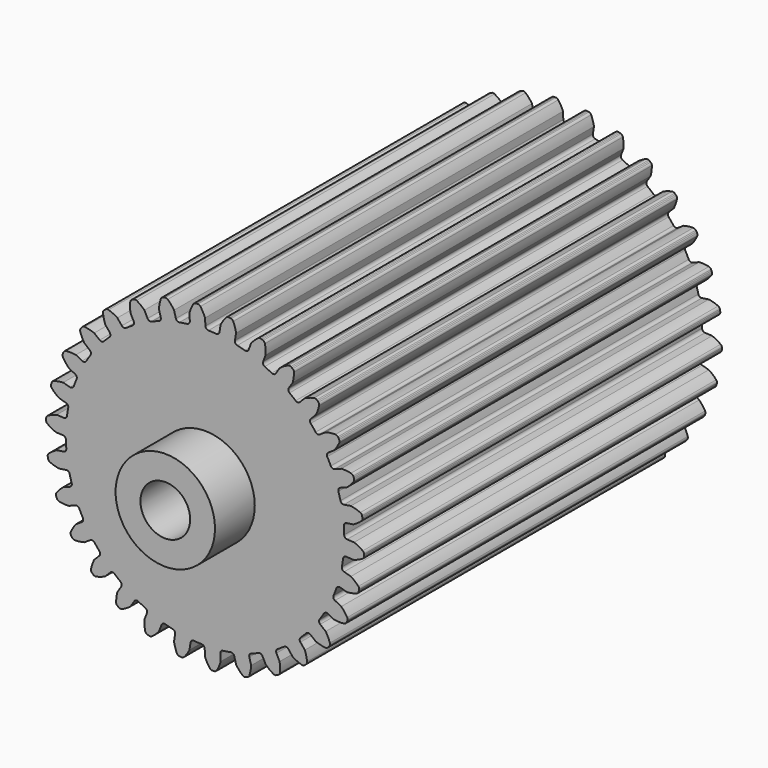
from build123d import *

# Parameters (mm, degrees)
F0_R     = 6.35
F1_DEPTH = 114.3
F2_R     = 12.7
F2_R_2   = 6.35
F3_DEPTH = 12.7


with BuildPart() as f1:
    # F0 (on Front) → F1 (new body)
    with BuildSketch(Plane.XZ):
        with BuildLine():
            ThreePointArc((-3.887965, 36.086799), (-4.069389, 35.541508), (-4.573026, 35.264728))
            ThreePointArc((-4.573026, 35.264728), (-5.56281, 35.122197), (-6.548194, 34.951892))
            ThreePointArc((-6.548194, 34.951892), (-7.112711, 35.059493), (-7.453759, 35.522033))
            Line((-7.453759, 35.522033), (-7.921435, 37.267424))
            ThreePointArc((-7.921435, 37.267424), (-8.670112, 38.268273), (-9.543393, 39.162475))
            ThreePointArc((-9.543393, 39.162475), (-9.866172, 39.337272), (-10.23312, 39.346747))
            Line((-10.23312, 39.346747), (-10.526235, 39.284443))
            Line((-10.526235, 39.284443), (-10.811231, 39.191842))
            ThreePointArc((-10.811231, 39.191842), (-11.12428, 39.000163), (-11.316417, 38.687395))
            ThreePointArc((-11.316417, 38.687395), (-11.625599, 37.476353), (-11.773547, 36.235253))
            Line((-11.773547, 36.235253), (-11.305871, 34.489862))
            ThreePointArc((-11.305871, 34.489862), (-11.369959, 33.918767), (-11.805044, 33.543323))
            ThreePointArc((-11.805044, 33.543323), (-12.743564, 33.19812), (-13.672007, 32.826663))
            ThreePointArc((-13.672007, 32.826663), (-14.246559, 32.814543), (-14.676323, 33.196067))
            Line((-14.676323, 33.196067), (-15.496666, 34.806082))
            ThreePointArc((-15.496666, 34.806082), (-16.437071, 35.629402), (-17.477183, 36.322498))
            ThreePointArc((-17.477183, 36.322498), (-17.829251, 36.426366), (-18.19015, 36.35934))
            Line((-18.19015, 36.35934), (-18.463906, 36.237456))
            Line((-18.463906, 36.237456), (-18.723422, 36.087625))
            ThreePointArc((-18.723422, 36.087625), (-18.989778, 35.835048), (-19.112688, 35.489167))
            ThreePointArc((-19.112688, 35.489167), (-19.163324, 34.240306), (-19.05, 32.995568))
            Line((-19.05, 32.995568), (-18.229657, 31.385553))
            ThreePointArc((-18.229657, 31.385553), (-18.173606, 30.813613), (-18.521125, 30.355915))
            ThreePointArc((-18.521125, 30.355915), (-19.367364, 29.823125), (-20.198288, 29.266752))
            ThreePointArc((-20.198288, 29.266752), (-20.757765, 29.135441), (-21.25746, 29.419275))
            Line((-21.25746, 29.419275), (-22.394618, 30.823547))
            ThreePointArc((-22.394618, 30.823547), (-23.48565, 31.433355), (-24.647137, 31.895054))
            ThreePointArc((-24.647137, 31.895054), (-25.013107, 31.923452), (-25.352184, 31.782857))
            Line((-25.352184, 31.782857), (-25.594616, 31.606719))
            Line((-25.594616, 31.606719), (-25.81731, 31.406205))
            ThreePointArc((-25.81731, 31.406205), (-26.025331, 31.103769), (-26.073642, 30.739892))
            ThreePointArc((-26.073642, 30.739892), (-25.863519, 29.507795), (-25.493876, 28.313818))
            Line((-25.493876, 28.313818), (-24.356718, 26.909545))
            ThreePointArc((-24.356718, 26.909545), (-24.182979, 26.361757), (-24.427743, 25.841807))
            ThreePointArc((-24.427743, 25.841807), (-25.144717, 25.144717), (-25.841807, 24.427743))
            ThreePointArc((-25.841807, 24.427743), (-26.361757, 24.182979), (-26.909545, 24.356718))
            Line((-26.909545, 24.356718), (-28.313818, 25.493876))
            ThreePointArc((-28.313818, 25.493876), (-29.507795, 25.863519), (-30.739892, 26.073642))
            ThreePointArc((-30.739892, 26.073642), (-31.103769, 26.025331), (-31.406205, 25.81731))
            Line((-31.406205, 25.81731), (-31.606719, 25.594616))
            Line((-31.606719, 25.594616), (-31.782857, 25.352184))
            ThreePointArc((-31.782857, 25.352184), (-31.923452, 25.013107), (-31.895054, 24.647137))
            ThreePointArc((-31.895054, 24.647137), (-31.433355, 23.48565), (-30.823547, 22.394618))
            Line((-30.823547, 22.394618), (-29.419275, 21.25746))
            ThreePointArc((-29.419275, 21.25746), (-29.135441, 20.757765), (-29.266752, 20.198288))
            ThreePointArc((-29.266752, 20.198288), (-29.823125, 19.367364), (-30.355915, 18.521125))
            ThreePointArc((-30.355915, 18.521125), (-30.813613, 18.173606), (-31.385553, 18.229657))
            Line((-31.385553, 18.229657), (-32.995568, 19.05))
            ThreePointArc((-32.995568, 19.05), (-34.240306, 19.163324), (-35.489167, 19.112688))
            ThreePointArc((-35.489167, 19.112688), (-35.835048, 18.989778), (-36.087625, 18.723422))
            Line((-36.087625, 18.723422), (-36.237456, 18.463906))
            Line((-36.237456, 18.463906), (-36.35934, 18.19015))
            ThreePointArc((-36.35934, 18.19015), (-36.426366, 17.829251), (-36.322498, 17.477183))
            ThreePointArc((-36.322498, 17.477183), (-35.629402, 16.437071), (-34.806082, 15.496666))
            Line((-34.806082, 15.496666), (-33.196067, 14.676323))
            ThreePointArc((-33.196067, 14.676323), (-32.814543, 14.246559), (-32.826663, 13.672007))
            ThreePointArc((-32.826663, 13.672007), (-33.19812, 12.743564), (-33.543323, 11.805044))
            ThreePointArc((-33.543323, 11.805044), (-33.918767, 11.369959), (-34.489862, 11.305871))
            Line((-34.489862, 11.305871), (-36.235253, 11.773547))
            ThreePointArc((-36.235253, 11.773547), (-37.476353, 11.625599), (-38.687395, 11.316417))
            ThreePointArc((-38.687395, 11.316417), (-39.000163, 11.12428), (-39.191842, 10.811231))
            Line((-39.191842, 10.811231), (-39.284443, 10.526235))
            Line((-39.284443, 10.526235), (-39.346747, 10.23312))
            ThreePointArc((-39.346747, 10.23312), (-39.337272, 9.866172), (-39.162475, 9.543393))
            ThreePointArc((-39.162475, 9.543393), (-38.268273, 8.670112), (-37.267424, 7.921435))
            Line((-37.267424, 7.921435), (-35.522033, 7.453759))
            ThreePointArc((-35.522033, 7.453759), (-35.059493, 7.112711), (-34.951892, 6.548194))
            ThreePointArc((-34.951892, 6.548194), (-35.122197, 5.56281), (-35.264728, 4.573026))
            ThreePointArc((-35.264728, 4.573026), (-35.541508, 4.069389), (-36.086799, 3.887965))
            Line((-36.086799, 3.887965), (-37.891284, 3.982534))
            ThreePointArc((-37.891284, 3.982534), (-39.074503, 3.57978), (-40.194798, 3.025564))
            ThreePointArc((-40.194798, 3.025564), (-40.460784, 2.772598), (-40.583188, 2.426538))
            Line((-40.583188, 2.426538), (-40.614511, 2.128516))
            Line((-40.614511, 2.128516), (-40.614511, 1.828853))
            ThreePointArc((-40.614511, 1.828853), (-40.528951, 1.471894), (-40.290864, 1.19251))
            ThreePointArc((-40.290864, 1.19251), (-39.234637, 0.524228), (-38.1, 0))
            Line((-38.1, 0), (-36.295515, -0.094569))
            ThreePointArc((-36.295515, -0.094569), (-35.772175, -0.331998), (-35.549555, -0.861807))
            ThreePointArc((-35.549555, -0.861807), (-35.511266, -1.861067), (-35.444895, -2.858854))
            ThreePointArc((-35.444895, -2.858854), (-35.610914, -3.409031), (-36.106569, -3.699863))
            Line((-36.106569, -3.699863), (-37.891284, -3.982534))
            ThreePointArc((-37.891284, -3.982534), (-38.964909, -4.622492), (-39.945495, -5.39752))
            ThreePointArc((-39.945495, -5.39752), (-40.153074, -5.70026), (-40.200853, -6.064207))
            Line((-40.200853, -6.064207), (-40.16953, -6.362229))
            Line((-40.16953, -6.362229), (-40.107226, -6.655343))
            ThreePointArc((-40.107226, -6.655343), (-39.94932, -6.986713), (-39.658349, -7.21049))
            ThreePointArc((-39.658349, -7.21049), (-38.486259, -7.644568), (-37.267424, -7.921435))
            Line((-37.267424, -7.921435), (-35.482709, -7.638764))
            ThreePointArc((-35.482709, -7.638764), (-34.921441, -7.762196), (-34.593533, -8.234143))
            ThreePointArc((-34.593533, -8.234143), (-34.348322, -9.203605), (-34.075949, -10.16579))
            ThreePointArc((-34.075949, -10.16579), (-34.123953, -10.738461), (-34.548309, -11.12599))
            Line((-34.548309, -11.12599), (-36.235253, -11.773547))
            ThreePointArc((-36.235253, -11.773547), (-37.152362, -12.62274), (-37.950383, -13.584707))
            ThreePointArc((-37.950383, -13.584707), (-38.090482, -13.923989), (-38.061549, -14.289917))
            Line((-38.061549, -14.289917), (-37.968948, -14.574913))
            Line((-37.968948, -14.574913), (-37.847064, -14.848669))
            ThreePointArc((-37.847064, -14.848669), (-37.623712, -15.139967), (-37.292573, -15.298358))
            ThreePointArc((-37.292573, -15.298358), (-36.055847, -15.479259), (-34.806082, -15.496666))
            Line((-34.806082, -15.496666), (-33.119138, -14.849109))
            ThreePointArc((-33.119138, -14.849109), (-32.544472, -14.853149), (-32.125606, -15.246607))
            ThreePointArc((-32.125606, -15.246607), (-31.684192, -16.143902), (-31.217722, -17.028431))
            ThreePointArc((-31.217722, -17.028431), (-31.145611, -17.598569), (-31.480122, -18.065858))
            Line((-31.480122, -18.065858), (-32.995568, -19.05))
            ThreePointArc((-32.995568, -19.05), (-33.716079, -20.071313), (-34.296657, -21.178176))
            ThreePointArc((-34.296657, -21.178176), (-34.363154, -21.539173), (-34.258772, -21.891089))
            Line((-34.258772, -21.891089), (-34.10894, -22.150605))
            Line((-34.10894, -22.150605), (-33.932802, -22.393037))
            ThreePointArc((-33.932802, -22.393037), (-33.653767, -22.631532), (-33.296934, -22.717614))
            ThreePointArc((-33.296934, -22.717614), (-32.049622, -22.637432), (-30.823547, -22.394618))
            Line((-30.823547, -22.394618), (-29.308102, -21.410476))
            ThreePointArc((-29.308102, -21.410476), (-28.745154, -21.294949), (-28.253637, -21.592721))
            ThreePointArc((-28.253637, -21.592721), (-27.63531, -22.378633), (-26.99513, -23.146848))
            ThreePointArc((-26.99513, -23.146848), (-26.806056, -23.689535), (-27.036103, -24.216161))
            Line((-27.036103, -24.216161), (-28.313818, -25.493876))
            ThreePointArc((-28.313818, -25.493876), (-28.806241, -26.642674), (-29.144002, -27.846058))
            ThreePointArc((-29.144002, -27.846058), (-29.133991, -28.212992), (-28.958722, -28.535515))
            Line((-28.958722, -28.535515), (-28.758208, -28.758208))
            Line((-28.758208, -28.758208), (-28.535515, -28.958722))
            ThreePointArc((-28.535515, -28.958722), (-28.212992, -29.133991), (-27.846058, -29.144002))
            ThreePointArc((-27.846058, -29.144002), (-26.642674, -28.806241), (-25.493876, -28.313818))
            Line((-25.493876, -28.313818), (-24.216161, -27.036103))
            ThreePointArc((-24.216161, -27.036103), (-23.689535, -26.806056), (-23.146848, -26.99513))
            ThreePointArc((-23.146848, -26.99513), (-22.378633, -27.63531), (-21.592721, -28.253637))
            ThreePointArc((-21.592721, -28.253637), (-21.294949, -28.745154), (-21.410476, -29.308102))
            Line((-21.410476, -29.308102), (-22.394618, -30.823547))
            ThreePointArc((-22.394618, -30.823547), (-22.637432, -32.049622), (-22.717614, -33.296934))
            ThreePointArc((-22.717614, -33.296934), (-22.631532, -33.653767), (-22.393037, -33.932802))
            Line((-22.393037, -33.932802), (-22.150605, -34.10894))
            Line((-22.150605, -34.10894), (-21.891089, -34.258772))
            ThreePointArc((-21.891089, -34.258772), (-21.539173, -34.363154), (-21.178176, -34.296657))
            ThreePointArc((-21.178176, -34.296657), (-20.071313, -33.716079), (-19.05, -32.995568))
            Line((-19.05, -32.995568), (-18.065858, -31.480122))
            ThreePointArc((-18.065858, -31.480122), (-17.598569, -31.145611), (-17.028431, -31.217722))
            ThreePointArc((-17.028431, -31.217722), (-16.143902, -31.684192), (-15.246607, -32.125606))
            ThreePointArc((-15.246607, -32.125606), (-14.853149, -32.544472), (-14.849109, -33.119138))
            Line((-14.849109, -33.119138), (-15.496666, -34.806082))
            ThreePointArc((-15.496666, -34.806082), (-15.479259, -36.055847), (-15.298358, -37.292573))
            ThreePointArc((-15.298358, -37.292573), (-15.139967, -37.623712), (-14.848669, -37.847064))
            Line((-14.848669, -37.847064), (-14.574913, -37.968948))
            Line((-14.574913, -37.968948), (-14.289917, -38.061549))
            ThreePointArc((-14.289917, -38.061549), (-13.923989, -38.090482), (-13.584707, -37.950383))
            ThreePointArc((-13.584707, -37.950383), (-12.62274, -37.152362), (-11.773547, -36.235253))
            Line((-11.773547, -36.235253), (-11.12599, -34.548309))
            ThreePointArc((-11.12599, -34.548309), (-10.738461, -34.123953), (-10.16579, -34.075949))
            ThreePointArc((-10.16579, -34.075949), (-9.203605, -34.348322), (-8.234143, -34.593533))
            ThreePointArc((-8.234143, -34.593533), (-7.762196, -34.921441), (-7.638764, -35.482709))
            Line((-7.638764, -35.482709), (-7.921435, -37.267424))
            ThreePointArc((-7.921435, -37.267424), (-7.644568, -38.486259), (-7.21049, -39.658349))
            ThreePointArc((-7.21049, -39.658349), (-6.986713, -39.94932), (-6.655343, -40.107226))
            Line((-6.655343, -40.107226), (-6.362229, -40.16953))
            Line((-6.362229, -40.16953), (-6.064207, -40.200853))
            ThreePointArc((-6.064207, -40.200853), (-5.70026, -40.153074), (-5.39752, -39.945495))
            ThreePointArc((-5.39752, -39.945495), (-4.622492, -38.964909), (-3.982534, -37.891284))
            Line((-3.982534, -37.891284), (-3.699863, -36.106569))
            ThreePointArc((-3.699863, -36.106569), (-3.409031, -35.610914), (-2.858854, -35.444895))
            ThreePointArc((-2.858854, -35.444895), (-1.861067, -35.511266), (-0.861807, -35.549555))
            ThreePointArc((-0.861807, -35.549555), (-0.331998, -35.772175), (-0.094569, -36.295515))
            Line((-0.094569, -36.295515), (0, -38.1))
            ThreePointArc((0, -38.1), (0.524228, -39.234637), (1.19251, -40.290864))
            ThreePointArc((1.19251, -40.290864), (1.471894, -40.528951), (1.828853, -40.614511))
            Line((1.828853, -40.614511), (2.128516, -40.614511))
            Line((2.128516, -40.614511), (2.426538, -40.583188))
            ThreePointArc((2.426538, -40.583188), (2.772598, -40.460784), (3.025564, -40.194798))
            ThreePointArc((3.025564, -40.194798), (3.57978, -39.074503), (3.982534, -37.891284))
            Line((3.982534, -37.891284), (3.887965, -36.086799))
            ThreePointArc((3.887965, -36.086799), (4.069389, -35.541508), (4.573026, -35.264728))
            ThreePointArc((4.573026, -35.264728), (5.56281, -35.122197), (6.548194, -34.951892))
            ThreePointArc((6.548194, -34.951892), (7.112711, -35.059493), (7.453759, -35.522033))
            Line((7.453759, -35.522033), (7.921435, -37.267424))
            ThreePointArc((7.921435, -37.267424), (8.670112, -38.268273), (9.543393, -39.162475))
            ThreePointArc((9.543393, -39.162475), (9.866172, -39.337272), (10.23312, -39.346747))
            Line((10.23312, -39.346747), (10.526235, -39.284443))
            Line((10.526235, -39.284443), (10.811231, -39.191842))
            ThreePointArc((10.811231, -39.191842), (11.12428, -39.000163), (11.316417, -38.687395))
            ThreePointArc((11.316417, -38.687395), (11.625599, -37.476353), (11.773547, -36.235253))
            Line((11.773547, -36.235253), (11.305871, -34.489862))
            ThreePointArc((11.305871, -34.489862), (11.369959, -33.918767), (11.805044, -33.543323))
            ThreePointArc((11.805044, -33.543323), (12.743564, -33.19812), (13.672007, -32.826663))
            ThreePointArc((13.672007, -32.826663), (14.246559, -32.814543), (14.676323, -33.196067))
            Line((14.676323, -33.196067), (15.496666, -34.806082))
            ThreePointArc((15.496666, -34.806082), (16.437071, -35.629402), (17.477183, -36.322498))
            ThreePointArc((17.477183, -36.322498), (17.829251, -36.426366), (18.19015, -36.35934))
            Line((18.19015, -36.35934), (18.463906, -36.237456))
            Line((18.463906, -36.237456), (18.723422, -36.087625))
            ThreePointArc((18.723422, -36.087625), (18.989778, -35.835048), (19.112688, -35.489167))
            ThreePointArc((19.112688, -35.489167), (19.163324, -34.240306), (19.05, -32.995568))
            Line((19.05, -32.995568), (18.229657, -31.385553))
            ThreePointArc((18.229657, -31.385553), (18.173606, -30.813613), (18.521125, -30.355915))
            ThreePointArc((18.521125, -30.355915), (19.367364, -29.823125), (20.198288, -29.266752))
            ThreePointArc((20.198288, -29.266752), (20.757765, -29.135441), (21.25746, -29.419275))
            Line((21.25746, -29.419275), (22.394618, -30.823547))
            ThreePointArc((22.394618, -30.823547), (23.48565, -31.433355), (24.647137, -31.895054))
            ThreePointArc((24.647137, -31.895054), (25.013107, -31.923452), (25.352184, -31.782857))
            Line((25.352184, -31.782857), (25.594616, -31.606719))
            Line((25.594616, -31.606719), (25.81731, -31.406205))
            ThreePointArc((25.81731, -31.406205), (26.025331, -31.103769), (26.073642, -30.739892))
            ThreePointArc((26.073642, -30.739892), (25.863519, -29.507795), (25.493876, -28.313818))
            Line((25.493876, -28.313818), (24.356718, -26.909545))
            ThreePointArc((24.356718, -26.909545), (24.182979, -26.361757), (24.427743, -25.841807))
            ThreePointArc((24.427743, -25.841807), (25.144717, -25.144717), (25.841807, -24.427743))
            ThreePointArc((25.841807, -24.427743), (26.361757, -24.182979), (26.909545, -24.356718))
            Line((26.909545, -24.356718), (28.313818, -25.493876))
            ThreePointArc((28.313818, -25.493876), (29.507795, -25.863519), (30.739892, -26.073642))
            ThreePointArc((30.739892, -26.073642), (31.103769, -26.025331), (31.406205, -25.81731))
            Line((31.406205, -25.81731), (31.606719, -25.594616))
            Line((31.606719, -25.594616), (31.782857, -25.352184))
            ThreePointArc((31.782857, -25.352184), (31.923452, -25.013107), (31.895054, -24.647137))
            ThreePointArc((31.895054, -24.647137), (31.433355, -23.48565), (30.823547, -22.394618))
            Line((30.823547, -22.394618), (29.419275, -21.25746))
            ThreePointArc((29.419275, -21.25746), (29.135441, -20.757765), (29.266752, -20.198288))
            ThreePointArc((29.266752, -20.198288), (29.823125, -19.367364), (30.355915, -18.521125))
            ThreePointArc((30.355915, -18.521125), (30.813613, -18.173606), (31.385553, -18.229657))
            Line((31.385553, -18.229657), (32.995568, -19.05))
            ThreePointArc((32.995568, -19.05), (34.240306, -19.163324), (35.489167, -19.112688))
            ThreePointArc((35.489167, -19.112688), (35.835048, -18.989778), (36.087625, -18.723422))
            Line((36.087625, -18.723422), (36.237456, -18.463906))
            Line((36.237456, -18.463906), (36.35934, -18.19015))
            ThreePointArc((36.35934, -18.19015), (36.426366, -17.829251), (36.322498, -17.477183))
            ThreePointArc((36.322498, -17.477183), (35.629402, -16.437071), (34.806082, -15.496666))
            Line((34.806082, -15.496666), (33.196067, -14.676323))
            ThreePointArc((33.196067, -14.676323), (32.814543, -14.246559), (32.826663, -13.672007))
            ThreePointArc((32.826663, -13.672007), (33.19812, -12.743564), (33.543323, -11.805044))
            ThreePointArc((33.543323, -11.805044), (33.918767, -11.369959), (34.489862, -11.305871))
            Line((34.489862, -11.305871), (36.235253, -11.773547))
            ThreePointArc((36.235253, -11.773547), (37.476353, -11.625599), (38.687395, -11.316417))
            ThreePointArc((38.687395, -11.316417), (39.000163, -11.12428), (39.191842, -10.811231))
            Line((39.191842, -10.811231), (39.284443, -10.526235))
            Line((39.284443, -10.526235), (39.346747, -10.23312))
            ThreePointArc((39.346747, -10.23312), (39.337272, -9.866172), (39.162475, -9.543393))
            ThreePointArc((39.162475, -9.543393), (38.268273, -8.670112), (37.267424, -7.921435))
            Line((37.267424, -7.921435), (35.522033, -7.453759))
            ThreePointArc((35.522033, -7.453759), (35.059493, -7.112711), (34.951892, -6.548194))
            ThreePointArc((34.951892, -6.548194), (35.122197, -5.56281), (35.264728, -4.573026))
            ThreePointArc((35.264728, -4.573026), (35.541508, -4.069389), (36.086799, -3.887965))
            Line((36.086799, -3.887965), (37.891284, -3.982534))
            ThreePointArc((37.891284, -3.982534), (39.074503, -3.57978), (40.194798, -3.025564))
            ThreePointArc((40.194798, -3.025564), (40.460784, -2.772598), (40.583188, -2.426538))
            Line((40.583188, -2.426538), (40.614511, -2.128516))
            Line((40.614511, -2.128516), (40.614511, -1.828853))
            ThreePointArc((40.614511, -1.828853), (40.528951, -1.471894), (40.290864, -1.19251))
            ThreePointArc((40.290864, -1.19251), (39.234637, -0.524228), (38.1, 0))
            Line((38.1, 0), (36.295515, 0.094569))
            ThreePointArc((36.295515, 0.094569), (35.772175, 0.331998), (35.549555, 0.861807))
            ThreePointArc((35.549555, 0.861807), (35.511266, 1.861067), (35.444895, 2.858854))
            ThreePointArc((35.444895, 2.858854), (35.610914, 3.409031), (36.106569, 3.699863))
            Line((36.106569, 3.699863), (37.891284, 3.982534))
            ThreePointArc((37.891284, 3.982534), (38.964909, 4.622492), (39.945495, 5.39752))
            ThreePointArc((39.945495, 5.39752), (40.153074, 5.70026), (40.200853, 6.064207))
            Line((40.200853, 6.064207), (40.16953, 6.362229))
            Line((40.16953, 6.362229), (40.107226, 6.655343))
            ThreePointArc((40.107226, 6.655343), (39.94932, 6.986713), (39.658349, 7.21049))
            ThreePointArc((39.658349, 7.21049), (38.486259, 7.644568), (37.267424, 7.921435))
            Line((37.267424, 7.921435), (35.482709, 7.638764))
            ThreePointArc((35.482709, 7.638764), (34.921441, 7.762196), (34.593533, 8.234143))
            ThreePointArc((34.593533, 8.234143), (34.348322, 9.203605), (34.075949, 10.16579))
            ThreePointArc((34.075949, 10.16579), (34.123953, 10.738461), (34.548309, 11.12599))
            Line((34.548309, 11.12599), (36.235253, 11.773547))
            ThreePointArc((36.235253, 11.773547), (37.152362, 12.62274), (37.950383, 13.584707))
            ThreePointArc((37.950383, 13.584707), (38.090482, 13.923989), (38.061549, 14.289917))
            Line((38.061549, 14.289917), (37.968948, 14.574913))
            Line((37.968948, 14.574913), (37.847064, 14.848669))
            ThreePointArc((37.847064, 14.848669), (37.623712, 15.139967), (37.292573, 15.298358))
            ThreePointArc((37.292573, 15.298358), (36.055847, 15.479259), (34.806082, 15.496666))
            Line((34.806082, 15.496666), (33.119138, 14.849109))
            ThreePointArc((33.119138, 14.849109), (32.544472, 14.853149), (32.125606, 15.246607))
            ThreePointArc((32.125606, 15.246607), (31.684192, 16.143902), (31.217722, 17.028431))
            ThreePointArc((31.217722, 17.028431), (31.145611, 17.598569), (31.480122, 18.065858))
            Line((31.480122, 18.065858), (32.995568, 19.05))
            ThreePointArc((32.995568, 19.05), (33.716079, 20.071313), (34.296657, 21.178176))
            ThreePointArc((34.296657, 21.178176), (34.363154, 21.539173), (34.258772, 21.891089))
            Line((34.258772, 21.891089), (34.10894, 22.150605))
            Line((34.10894, 22.150605), (33.932802, 22.393037))
            ThreePointArc((33.932802, 22.393037), (33.653767, 22.631532), (33.296934, 22.717614))
            ThreePointArc((33.296934, 22.717614), (32.049622, 22.637432), (30.823547, 22.394618))
            Line((30.823547, 22.394618), (29.308102, 21.410476))
            ThreePointArc((29.308102, 21.410476), (28.745154, 21.294949), (28.253637, 21.592721))
            ThreePointArc((28.253637, 21.592721), (27.63531, 22.378633), (26.99513, 23.146848))
            ThreePointArc((26.99513, 23.146848), (26.806056, 23.689535), (27.036103, 24.216161))
            Line((27.036103, 24.216161), (28.313818, 25.493876))
            ThreePointArc((28.313818, 25.493876), (28.806241, 26.642674), (29.144002, 27.846058))
            ThreePointArc((29.144002, 27.846058), (29.133991, 28.212992), (28.958722, 28.535515))
            Line((28.958722, 28.535515), (28.758208, 28.758208))
            Line((28.758208, 28.758208), (28.535515, 28.958722))
            ThreePointArc((28.535515, 28.958722), (28.212992, 29.133991), (27.846058, 29.144002))
            ThreePointArc((27.846058, 29.144002), (26.642674, 28.806241), (25.493876, 28.313818))
            Line((25.493876, 28.313818), (24.216161, 27.036103))
            ThreePointArc((24.216161, 27.036103), (23.689535, 26.806056), (23.146848, 26.99513))
            ThreePointArc((23.146848, 26.99513), (22.378633, 27.63531), (21.592721, 28.253637))
            ThreePointArc((21.592721, 28.253637), (21.294949, 28.745154), (21.410476, 29.308102))
            Line((21.410476, 29.308102), (22.394618, 30.823547))
            ThreePointArc((22.394618, 30.823547), (22.637432, 32.049622), (22.717614, 33.296934))
            ThreePointArc((22.717614, 33.296934), (22.631532, 33.653767), (22.393037, 33.932802))
            Line((22.393037, 33.932802), (22.150605, 34.10894))
            Line((22.150605, 34.10894), (21.891089, 34.258772))
            ThreePointArc((21.891089, 34.258772), (21.539173, 34.363154), (21.178176, 34.296657))
            ThreePointArc((21.178176, 34.296657), (20.071313, 33.716079), (19.05, 32.995568))
            Line((19.05, 32.995568), (18.065858, 31.480122))
            ThreePointArc((18.065858, 31.480122), (17.598569, 31.145611), (17.028431, 31.217722))
            ThreePointArc((17.028431, 31.217722), (16.143902, 31.684192), (15.246607, 32.125606))
            ThreePointArc((15.246607, 32.125606), (14.853149, 32.544472), (14.849109, 33.119138))
            Line((14.849109, 33.119138), (15.496666, 34.806082))
            ThreePointArc((15.496666, 34.806082), (15.479259, 36.055847), (15.298358, 37.292573))
            ThreePointArc((15.298358, 37.292573), (15.139967, 37.623712), (14.848669, 37.847064))
            Line((14.848669, 37.847064), (14.574913, 37.968948))
            Line((14.574913, 37.968948), (14.289917, 38.061549))
            ThreePointArc((14.289917, 38.061549), (13.923989, 38.090482), (13.584707, 37.950383))
            ThreePointArc((13.584707, 37.950383), (12.62274, 37.152362), (11.773547, 36.235253))
            Line((11.773547, 36.235253), (11.12599, 34.548309))
            ThreePointArc((11.12599, 34.548309), (10.738461, 34.123953), (10.16579, 34.075949))
            ThreePointArc((10.16579, 34.075949), (9.203605, 34.348322), (8.234143, 34.593533))
            ThreePointArc((8.234143, 34.593533), (7.762196, 34.921441), (7.638764, 35.482709))
            Line((7.638764, 35.482709), (7.921435, 37.267424))
            ThreePointArc((7.921435, 37.267424), (7.644568, 38.486259), (7.21049, 39.658349))
            ThreePointArc((7.21049, 39.658349), (6.986713, 39.94932), (6.655343, 40.107226))
            Line((6.655343, 40.107226), (6.362229, 40.16953))
            Line((6.362229, 40.16953), (6.064207, 40.200853))
            ThreePointArc((6.064207, 40.200853), (5.70026, 40.153074), (5.39752, 39.945495))
            ThreePointArc((5.39752, 39.945495), (4.622492, 38.964909), (3.982534, 37.891284))
            Line((3.982534, 37.891284), (3.699863, 36.106569))
            ThreePointArc((3.699863, 36.106569), (3.409031, 35.610914), (2.858854, 35.444895))
            ThreePointArc((2.858854, 35.444895), (1.861067, 35.511266), (0.861807, 35.549555))
            ThreePointArc((0.861807, 35.549555), (0.331998, 35.772175), (0.094569, 36.295515))
            Line((0.094569, 36.295515), (0, 38.1))
            ThreePointArc((0, 38.1), (-0.524228, 39.234637), (-1.19251, 40.290864))
            ThreePointArc((-1.19251, 40.290864), (-1.471894, 40.528951), (-1.828853, 40.614511))
            Line((-1.828853, 40.614511), (-2.128516, 40.614511))
            Line((-2.128516, 40.614511), (-2.426538, 40.583188))
            ThreePointArc((-2.426538, 40.583188), (-2.772598, 40.460784), (-3.025564, 40.194798))
            ThreePointArc((-3.025564, 40.194798), (-3.57978, 39.074503), (-3.982534, 37.891284))
            Line((-3.982534, 37.891284), (-3.887965, 36.086799))
        make_face()
        Circle(F0_R, mode=Mode.SUBTRACT)
    extrude(amount=F1_DEPTH)

    # F2 (on face) → F3 (join)
    with BuildSketch(Plane.XZ.offset(114.3)):
        Circle(F2_R)
        Circle(F2_R_2, mode=Mode.SUBTRACT)
    extrude(amount=F3_DEPTH)


solid = f1.part
